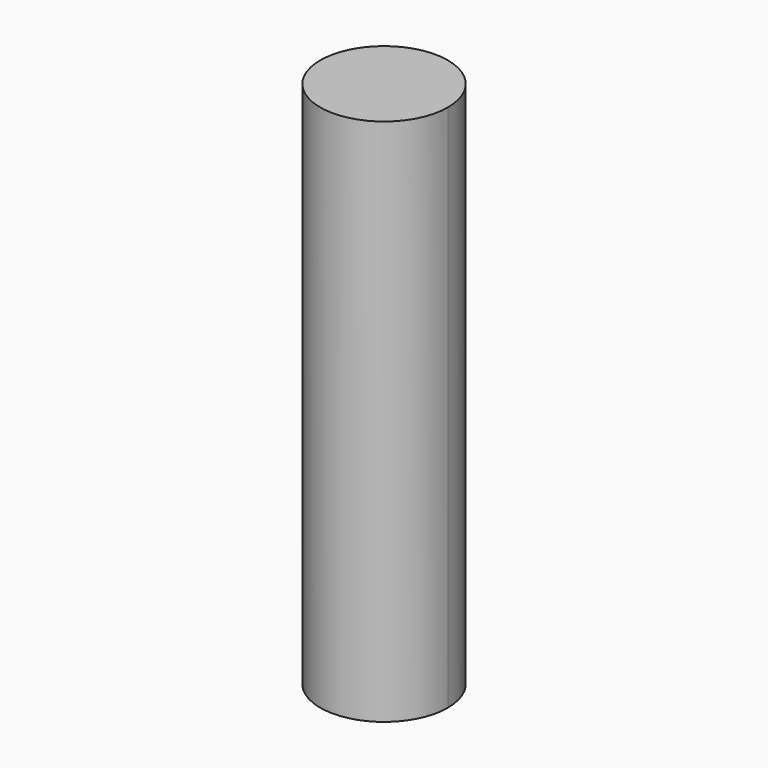
from build123d import *

# Parameters (mm, degrees)
F1_DEPTH = 62.23


with BuildPart() as f1:
    # F0 (on Top) → F1 (new body)
    with BuildSketch(Plane.XY):
        with BuildLine():
            ThreePointArc((-47.8605099723, -38.0570393001), (-51.6913825994, -31.5074410597), (-59.2779701667, -31.63593728))
            ThreePointArc((-59.2779701667, -31.63593728), (-55.3748321386, -38.0570393001), (-50.7791265282, -44.0021656706))
            ThreePointArc((-50.7791265282, -44.0021656706), (-48.6295133857, -41.3684910271), (-47.8605099723, -38.0570393001))
        make_face()
        with BuildLine():
            ThreePointArc((-50.7791265282, -44.0021656706), (-55.3748321386, -38.0570393001), (-59.2779701667, -31.63593728))
            ThreePointArc((-59.2779701667, -31.63593728), (-61.5676355116, -42.3131201268), (-50.7791265282, -44.0021656706))
        make_face()
    extrude(amount=F1_DEPTH)


solid = f1.part
